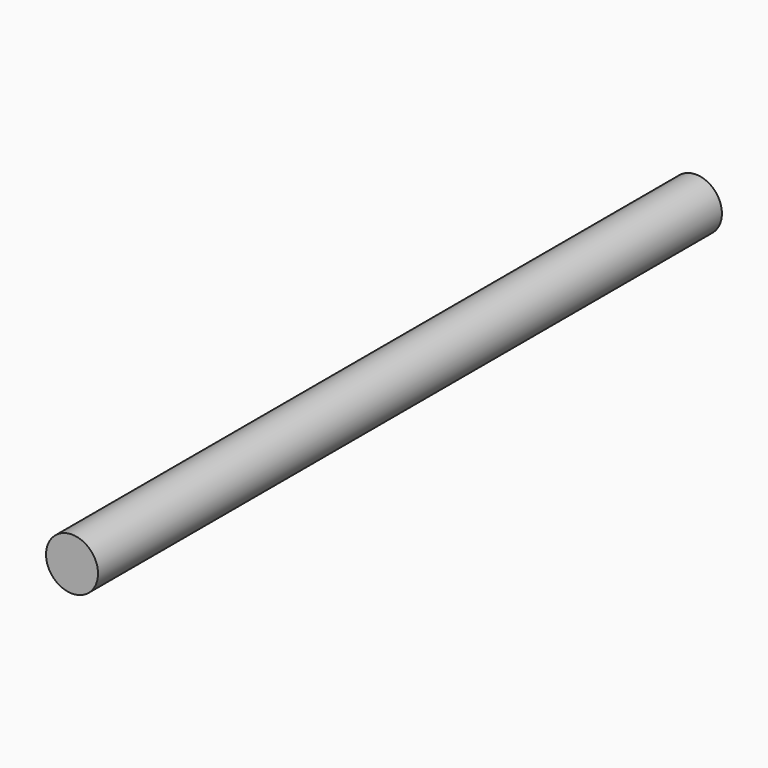
from build123d import *

# Parameters (mm, degrees)
SKETCH_R  = 2.5
PAD_DEPTH = 75


with BuildPart() as part:
    # Sketch → Pad (new body)
    with BuildSketch(Plane.XZ):
        Circle(SKETCH_R)
    extrude(amount=PAD_DEPTH)


solid = part.part
